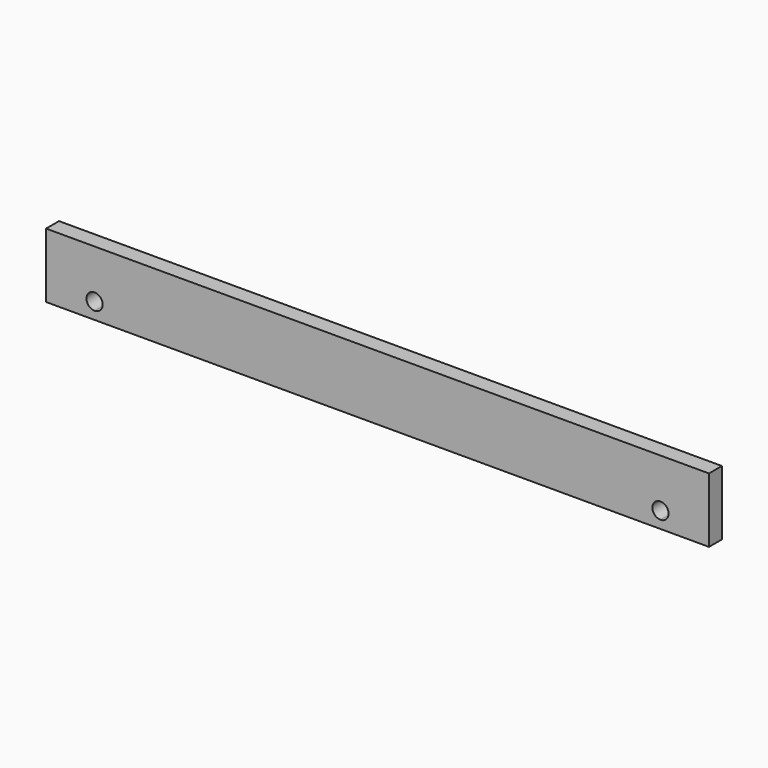
from build123d import *

# Parameters (mm, degrees)
F0_W     = 1041.4
F0_H     = 101.6
F1_DEPTH = 25.4
F3_DEPTH = 25.401


with BuildPart() as f1:
    # F0 (on Front) → F1 (new body)
    with BuildSketch(Plane.XZ):
        with Locations((520.7, 50.8)):
            Rectangle(F0_W, F0_H)
    extrude(amount=F1_DEPTH)

    # F2 (on face) → F3 (cut, through all)
    with BuildSketch(Plane.XZ.offset(25.4)):
        with BuildLine():
            ThreePointArc((88.9, 25.4), (85.180256, 34.380256), (76.2, 38.1))
            Line((76.2, 38.1), (76.2, 12.7))
            ThreePointArc((76.2, 12.7), (85.180256, 16.419744), (88.9, 25.4))
        make_face()
        with BuildLine():
            Line((76.2, 12.7), (76.2, 38.1))
            ThreePointArc((76.2, 38.1), (63.5, 25.4), (76.2, 12.7))
        make_face()
        with BuildLine():
            ThreePointArc((977.9, 25.4), (974.180256, 34.380256), (965.2, 38.1))
            Line((965.2, 38.1), (965.2, 12.7))
            ThreePointArc((965.2, 12.7), (974.180256, 16.419744), (977.9, 25.4))
        make_face()
        with BuildLine():
            Line((965.2, 12.7), (965.2, 38.1))
            ThreePointArc((965.2, 38.1), (952.5, 25.4), (965.2, 12.7))
        make_face()
    extrude(amount=-F3_DEPTH, mode=Mode.SUBTRACT)


solid = f1.part
